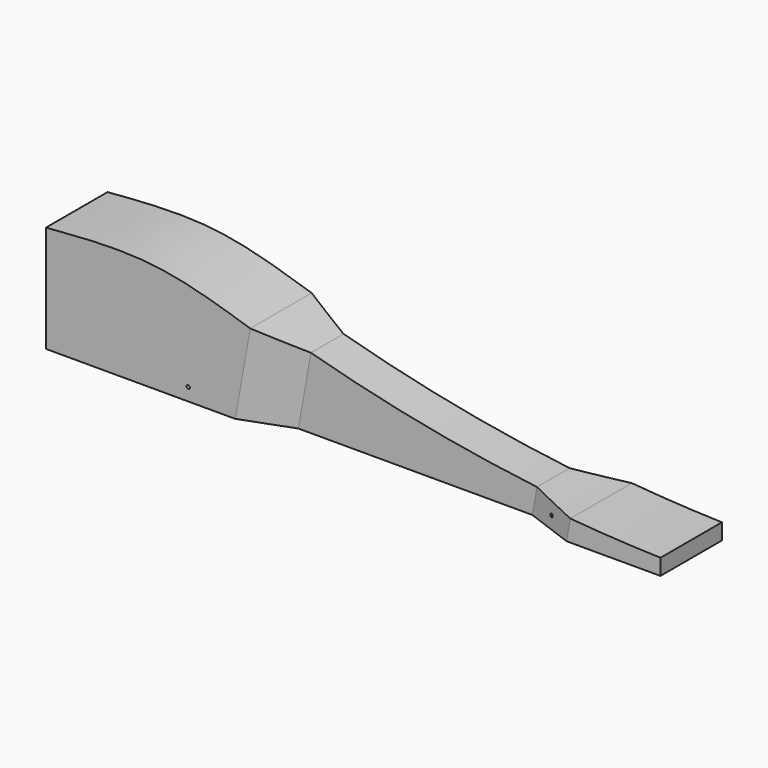
from build123d import *

# Parameters (mm, degrees)
F0_W      = 304.8
F0_H      = 69.85
F1_DEPTH  = 38.1
F3_DEPTH  = 50.8
F4_R      = 9.525
F5_DEPTH  = 54.102
F7_DEPTH  = 127
F10_DEPTH = 76.2
F11_R     = 0.8255
F12_DEPTH = 76.2
F13_R     = 0.8303429156
F14_DEPTH = 76.2


with BuildPart() as f1:
    # F0 (on Front) → F1 (new body)
    with BuildSketch(Plane.XZ):
        with Locations((47.9073338211, -25.1322889625)):
            Rectangle(F0_W, F0_H)
    extrude(amount=-F1_DEPTH)

    # F2 (on face) → F3 (cut)
    with BuildSketch(Plane.XZ):
        Polygon((200.3073338211, 9.7927110375), (-104.4926661789, 9.7927110375), (200.3073338211, -44.1822889625), align=None)
    extrude(amount=-F3_DEPTH, mode=Mode.SUBTRACT)

    # F4 (on face) → F5 (cut)
    with BuildSketch(Plane(origin=(-104.4926661789, 0, 0), x_dir=(0, -1, 0), z_dir=(-1, 0, 0))):
        with Locations((-19.05, -25.1322889625)):
            Circle(F4_R)
    extrude(amount=-F5_DEPTH, mode=Mode.SUBTRACT)

    # F6 (on face) → F7 (cut)
    with BuildSketch(Plane(origin=(-1.4957050092, 0, -8.4463341696), x_dir=(0.9846801257, 0, -0.1743704389), z_dir=(0.1743704389, 0, 0.9846801257))):
        Polygon((161.8607493793, 38.1), (0, 38.1), (23.7803746896, 29.1751033832), (138.0803746896, 29.1751033832), align=None)
        Polygon((23.7803746896, 8.9248966168), (0, 0), (161.8607493793, 0), (138.0803746896, 8.9248966168), align=None)
    extrude(amount=-F7_DEPTH, mode=Mode.SUBTRACT)

    # F8 (on face) + F9 (on Front) → F10 (cut)
    with BuildSketch(Plane.XZ):
        with BuildLine():
            Line((-104.4926661789, 9.7927110375), (-104.4926661789, -7.0267124102))
            add(Edge.make_bspline(
                [(-104.4926661789, -7.0267124102), (-86.5421169112, -5.598796544), (-51.2128417473, -2.7884517576), (-19.0416161066, -13.0937231046), (-3.2163576046, -18.1629605909)],
                knots=[0, 0, 0, 0, 0.5080927696, 1, 1, 1, 1], degree=3))
            Line((-3.2163576046, -18.1629605909), (-1.4957050092, -8.4463341696))
            Line((-1.4957050092, -8.4463341696), (-104.4926661789, 9.7927110375))
        make_face()
    with BuildSketch(Plane.XZ):
        with BuildLine():
            ThreePointArc((-3.2163576046, -18.1629605909), (8.2323547856, -21.6399019905), (19.734878598, -24.9344555011))
            Line((19.734878598, -24.9344555011), (21.9203573303, -12.5929285423))
            Line((21.9203573303, -12.5929285423), (-1.4957050092, -8.4463341696))
            Line((-1.4957050092, -8.4463341696), (-3.2163576046, -18.1629605909))
        make_face()
        with BuildLine():
            Line((157.8853580419, -36.6700640849), (155.6058786995, -49.5424180184))
            ThreePointArc((155.6058786995, -49.5424180184), (177.93744088, -51.1635043768), (200.3073338211, -52.1197889625))
            Line((200.3073338211, -52.1197889625), (200.3073338211, -44.1822889625))
            Line((200.3073338211, -44.1822889625), (157.8853580419, -36.6700640849))
        make_face()
        with BuildLine():
            Line((134.4692957023, -32.5234697123), (131.8903467665, -47.086946056))
            ThreePointArc((131.8903467665, -47.086946056), (143.7383916941, -48.4085701416), (155.6058786995, -49.5424180184))
            Line((155.6058786995, -49.5424180184), (157.8853580419, -36.6700640849))
            Line((157.8853580419, -36.6700640849), (134.4692957023, -32.5234697123))
        make_face()
        with BuildLine():
            Line((21.9203573303, -12.5929285423), (19.734878598, -24.9344555011))
            ThreePointArc((19.734878598, -24.9344555011), (75.3915150532, -38.1426688122), (131.8903467665, -47.086946056))
            Line((131.8903467665, -47.086946056), (134.4692957023, -32.5234697123))
            Line((134.4692957023, -32.5234697123), (21.9203573303, -12.5929285423))
        make_face()
    extrude(amount=-F10_DEPTH, mode=Mode.SUBTRACT)

    # F11 (on Front) → F12 (cut)
    with BuildSketch(Plane.XZ):
        with Locations((142.7114277425, -54.1861406792)):
            Circle(F11_R)
    extrude(amount=-F12_DEPTH, mode=Mode.SUBTRACT)

    # F13 (on Front) → F14 (cut)
    with BuildSketch(Plane.XZ):
        with Locations((-34.0031449204, -53.7072889625)):
            Circle(F13_R)
    extrude(amount=-F14_DEPTH, mode=Mode.SUBTRACT)


solid = f1.part
